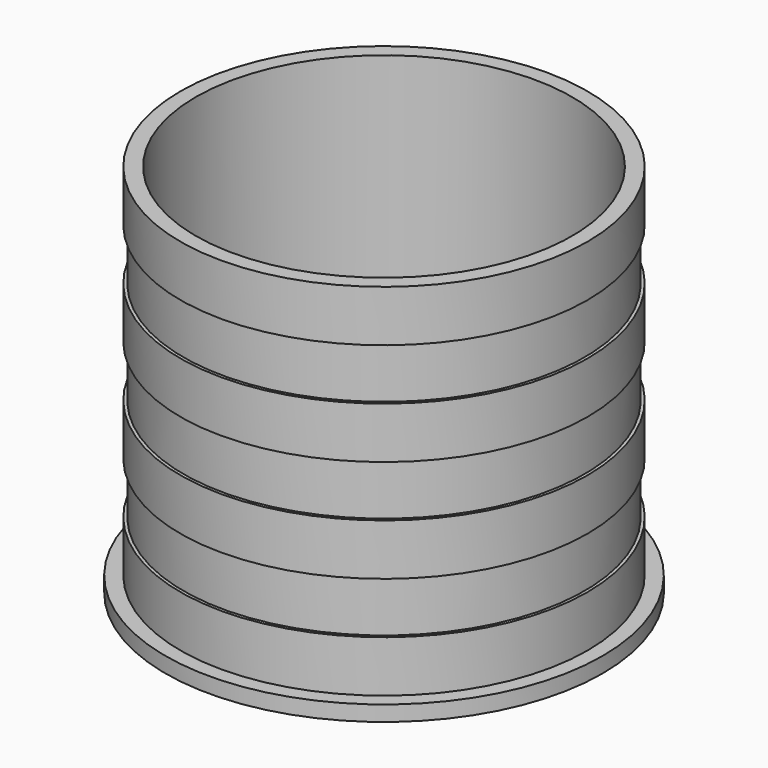
from build123d import *


with BuildPart() as f1:
    # F0 (on Front) → F1 (revolve)
    with BuildSketch(Plane.XZ):
        Polygon((-53.975, -50.8), (-53.975, -54.61), (-46.482, -54.61), (-46.482, 38.1), (-49.53, 38.1), (-50.292, 38.1), (-50.292, 25.4), (-49.53, 25.4), (-49.53, 12.7), (-50.292, 12.7), (-50.292, 0), (-49.53, 0), (-49.53, -12.7), (-50.292, -12.7), (-50.292, -25.4), (-49.53, -25.4), (-49.53, -38.1), (-50.292, -38.1), (-50.292, -50.8), align=None)
    revolve(axis=Axis((0, 0, 20.140361), (0, 0, 1)))


solid = f1.part
